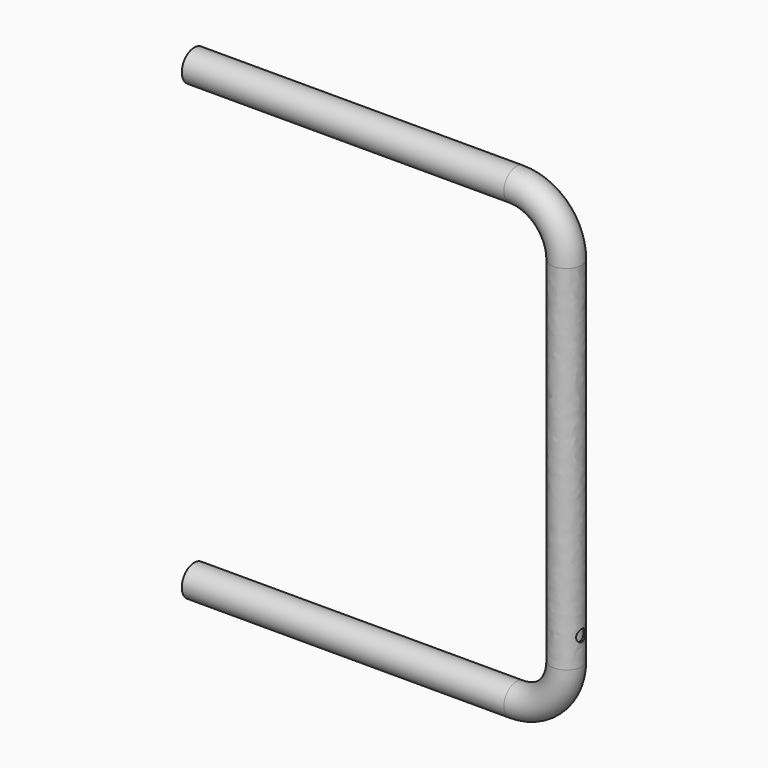
from build123d import *

# Parameters (mm, degrees)
F1_R     = 13.375
F1_R_2   = 11.875
F3_R     = 5
F4_DEPTH = 333.376


with BuildPart() as f2:
    # F2: sweep along a path in F0
    with BuildLine(Plane.XZ) as f2_path:
        Line((0, 0), (277, 0))
        ThreePointArc((277, 0), (307.405592, 12.594408), (320, 43))
        Line((320, 43), (320, 347))
        ThreePointArc((320, 347), (307.405592, 377.405592), (277, 390))
        Line((277, 390), (0, 390))
    # F1 (on Right) → F2 (sweep)
    with BuildSketch(Plane.YZ):
        Circle(F1_R)
        Circle(F1_R_2, mode=Mode.SUBTRACT)
    sweep(path=f2_path.line)

    # F3 (on Right) → F4 (cut, through all)
    with BuildSketch(Plane.YZ):
        with Locations((0, 66.625)):
            Circle(F3_R)
    extrude(amount=F4_DEPTH, mode=Mode.SUBTRACT)


solid = f2.part
